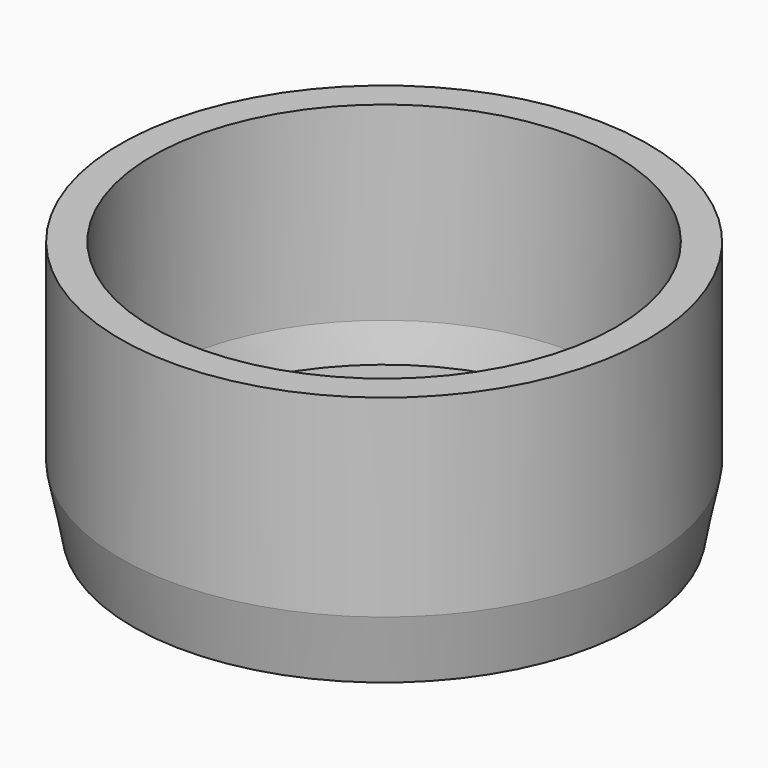
from build123d import *

# Parameters (mm, degrees)
F0_R     = 20.5
F1_DEPTH = 20
F2_SIZE2 = 1
F2_SIZE  = 5
F3_T     = -2.5


with BuildPart() as f1:
    # F0 (on Top) → F1 (new body)
    with BuildSketch(Plane.XY):
        Circle(F0_R)
    extrude(amount=F1_DEPTH)

    # F2
    f2_edges = [f1.edges().sort_by_distance(p)[0] for p in [
        (-20.5, 0, 0),
    ]]
    chamfer(f2_edges, length=F2_SIZE, length2=F2_SIZE2)

    # F3
    f3_openings = [f1.faces().sort_by_distance(p)[0] for p in [
        (0, 0, 20),
    ]]
    offset(amount=F3_T, openings=f3_openings)


solid = f1.part
